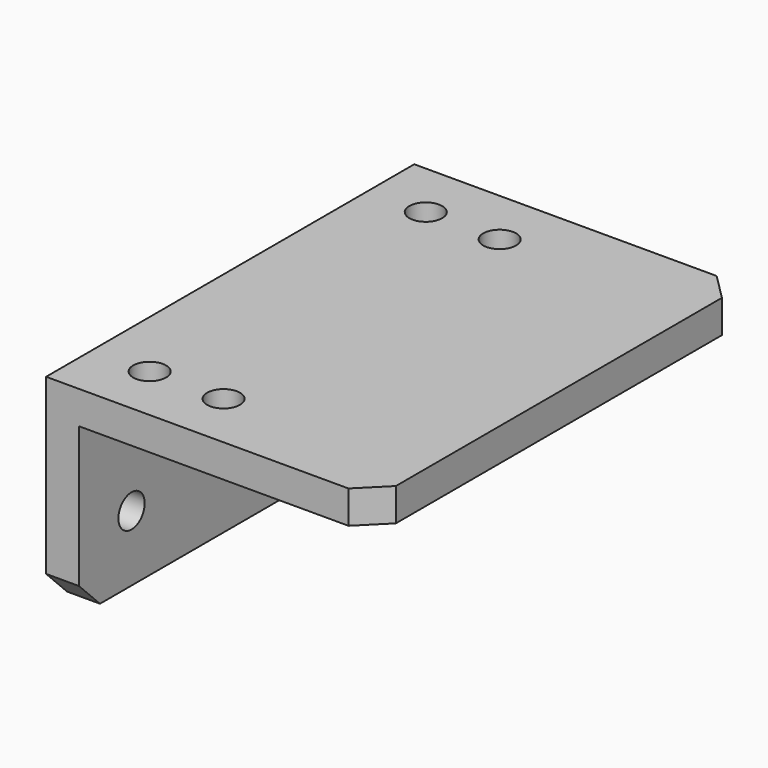
from build123d import *

# Parameters (mm, degrees)
F1_DEPTH = 88.9
F3_D     = 6.35
F4_SIZE  = 5.08
F6_D     = 6.35


with BuildPart() as f1:
    # F0 (on Front) → F1 (new body)
    with BuildSketch(Plane.XZ):
        Polygon((0, 38.6051108942), (0, 0), (6.35, 0), (6.35, 32.2551108942), (63.5, 32.2551108942), (63.5, 38.6051108942), align=None)
    extrude(amount=F1_DEPTH)

    # F3 (through all)
    with Locations(Plane(origin=(0, 0, 0), x_dir=(0, 1, 0), z_dir=(-1, 0, 0))):
        with Locations((-76.2, -12.7), (-12.7, -12.7)):
            Hole(F3_D / 2)

    # F4
    f4_edges = [f1.edges().sort_by_distance(p)[0] for p in [
        (63.5, 0, 35.430111),
        (63.5, -88.9, 35.430111),
        (3.175, -88.9, 0),
        (3.175, 0, 0),
    ]]
    chamfer(f4_edges, length=F4_SIZE)

    # F6 (through all)
    with Locations(Plane.XY.offset(38.6051108942)):
        with Locations((25.4, -11.1252), (11.1252, -11.1252), (11.1252, -77.8002), (25.4, -77.8002)):
            Hole(F6_D / 2)


solid = f1.part
